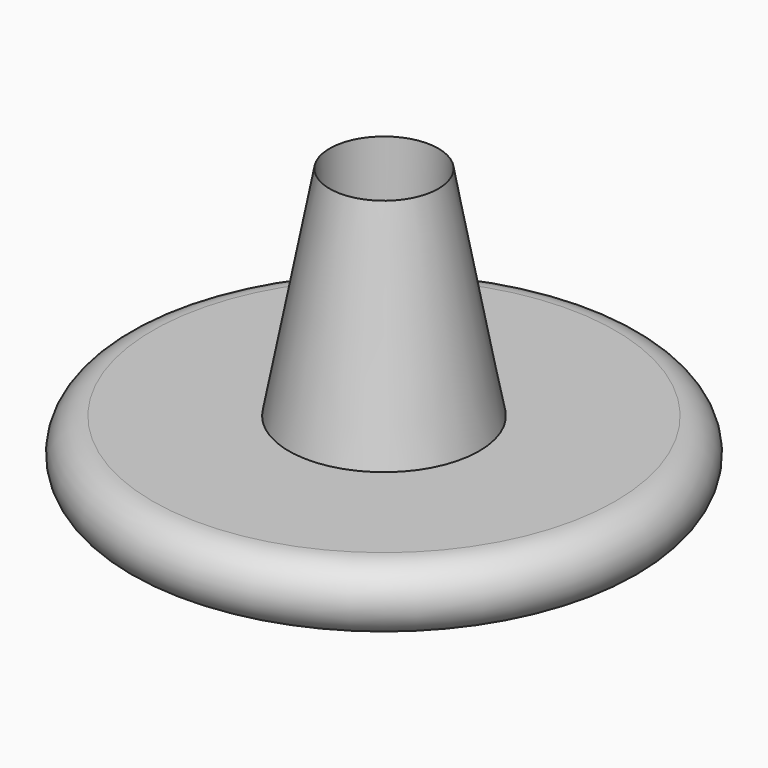
from build123d import *


with BuildPart() as f1:
    # F0 (on Front) → F1 (revolve)
    with BuildSketch(Plane.XZ):
        with BuildLine():
            Line((1.5875, 0), (26.9875, 11.43))
            ThreePointArc((26.9875, 11.43), (30.7975, 15.24), (26.9875, 19.05))
            Line((26.9875, 19.05), (11.1125, 19.05))
            Line((11.1125, 19.05), (6.35, 44.45))
            Line((6.35, 44.45), (6.35, 36.83))
            Line((6.35, 36.83), (0, 36.83))
            Line((0, 36.83), (0, 31.75))
            Line((0, 31.75), (0, 19.685))
            Line((0, 19.685), (1.5875, 19.685))
            Line((1.5875, 19.685), (1.5875, 0))
        make_face()
    revolve(axis=Axis((0, 0, 25.7175), (0, 0, 1)))


solid = f1.part
